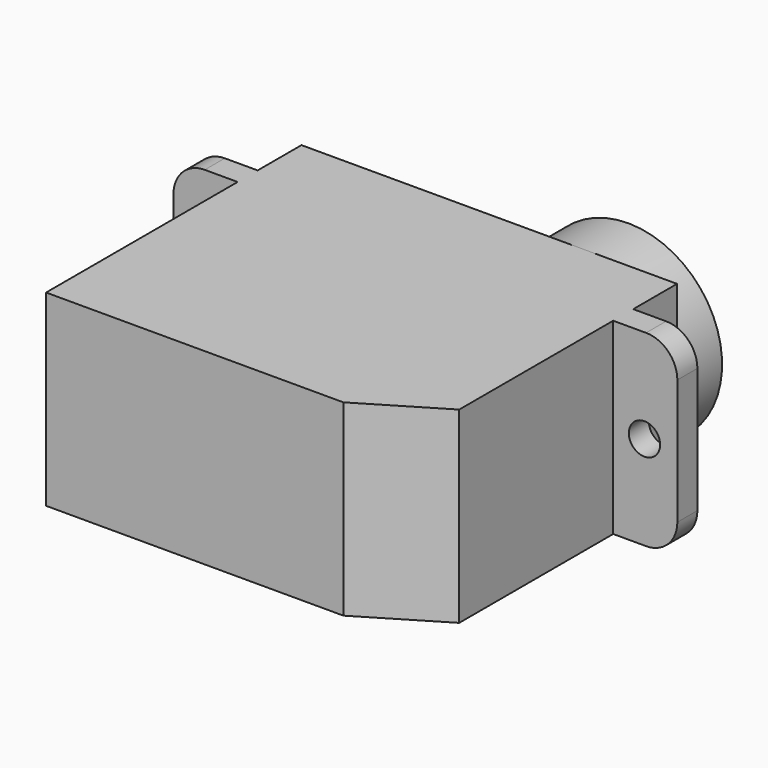
from build123d import *

# Parameters (mm, degrees)
PAD_DEPTH           = 12
SKETCH001_W         = 1.6
SKETCH001_H         = 12
PAD001_DEPTH        = 4.1
LINEARPATTERN_COUNT = 2
LINEARPATTERN_PITCH = 28.1
PAD002_DEPTH        = 3.6
SKETCH004_R         = 1.95
PAD003_DEPTH        = 3.5
SKETCH005_R         = 1
PAD004_DEPTH        = 1.2
FILLET_R            = 2
FILLET001_R         = 2
FILLET002_R         = 2
FILLET003_R         = 2
SKETCH006_R         = 1
POCKET_DEPTH        = 16.901


with BuildPart() as part:
    # Sketch → Pad (new body)
    with BuildSketch(Plane.XY):
        Polygon((-19, 20.4), (5, 20.4), (5, 3), (0, 0), (-19, 0), align=None)
    extrude(amount=PAD_DEPTH)

    # Sketch001 → Pad001 (new body)
    with BuildSketch(Plane.YZ.offset(5)):
        with Locations((16.1, 6)):
            Rectangle(SKETCH001_W, SKETCH001_H)
    pad001 = extrude(amount=PAD001_DEPTH)

    # LinearPattern: Pad001 ×2
    with Locations(*[(-i * LINEARPATTERN_PITCH, 0, 0) for i in range(1, LINEARPATTERN_COUNT)]):
        add(pad001)

    # Sketch003 → Pad002 (new body)
    with BuildSketch(Plane(origin=(0, 20.4, 0), x_dir=(-1, 0, 0), z_dir=(0, 1, 0))):
        with BuildLine():
            ThreePointArc((6.017699, 9.289787), (-5, 6), (6.017699, 2.710213))
            ThreePointArc((6.017699, 2.710213), (10, 6), (6.017699, 9.289787))
        make_face()
    extrude(amount=PAD002_DEPTH)

    # Sketch004 → Pad003 (new body)
    with BuildSketch(Plane(origin=(0, 24, 0), x_dir=(-1, 0, 0), z_dir=(0, 1, 0))):
        with Locations((1, 6)):
            Circle(SKETCH004_R)
    extrude(amount=PAD003_DEPTH)

    # Sketch005 → Pad004 (new body)
    with BuildSketch(Plane(origin=(0, 24, 0), x_dir=(-1, 0, 0), z_dir=(0, 1, 0))):
        with Locations((6.65, 6)):
            Circle(SKETCH005_R)
    extrude(amount=PAD004_DEPTH)

    # Fillet
    fillet_edges = [part.edges().sort_by_distance(p)[0] for p in [
        (9.1, 16.1, 12),
    ]]
    fillet(fillet_edges, radius=FILLET_R)

    # Fillet001
    fillet001_edges = [part.edges().sort_by_distance(p)[0] for p in [
        (-23.1, 16.1, 12),
    ]]
    fillet(fillet001_edges, radius=FILLET001_R)

    # Fillet002
    fillet002_edges = [part.edges().sort_by_distance(p)[0] for p in [
        (9.1, 16.1, 0),
    ]]
    fillet(fillet002_edges, radius=FILLET002_R)

    # Fillet003
    fillet003_edges = [part.edges().sort_by_distance(p)[0] for p in [
        (-23.1, 16.1, 0),
    ]]
    fillet(fillet003_edges, radius=FILLET003_R)

    # Sketch006 → Pocket (cut, through all)
    with BuildSketch(Plane(origin=(0, 16.9, 0), x_dir=(-1, 0, 0), z_dir=(0, 1, 0))):
        with Locations((-7, 6)):
            Circle(SKETCH006_R)
        with Locations((21, 6)):
            Circle(SKETCH006_R)
    extrude(amount=-POCKET_DEPTH, mode=Mode.SUBTRACT)


solid = part.part
